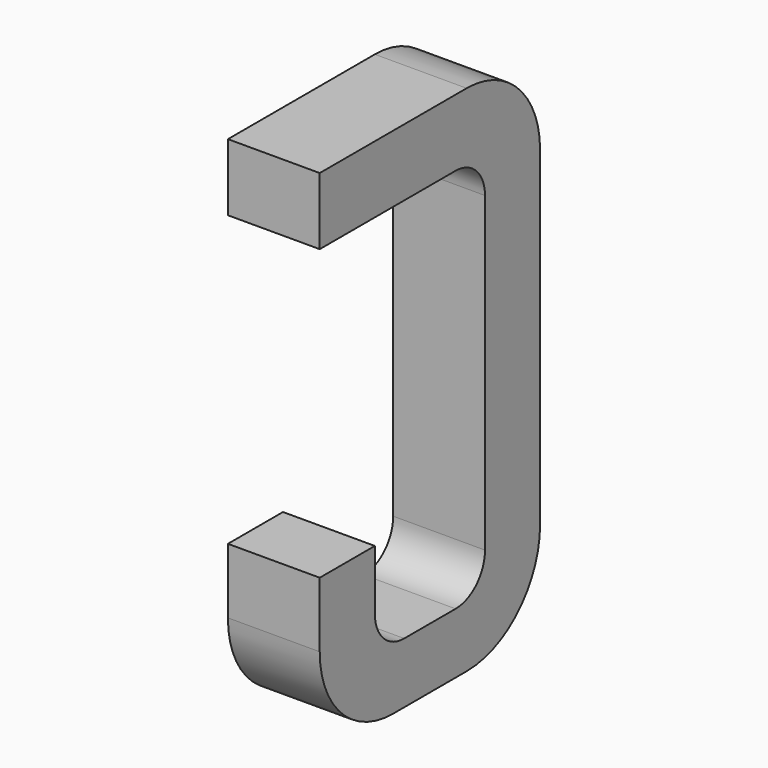
from build123d import *

# Parameters (mm, degrees)
BOX078_W     = 0.5
BOX078_H     = 1.5
BOX078_DEPTH = 2.795
FILLET183_R  = 0.5
FILLET194_R  = 0.5
FILLET206_R  = 0.5
BOX088_W     = 0.75
BOX088_H     = 2.1
BOX088_DEPTH = 1
FILLET196_R  = 0.2
FILLET188_R  = 0.2
FILLET184_R  = 0.2
FILLET207_R  = 0.2
BOX094_W     = 1
BOX094_H     = 1.575
BOX094_DEPTH = 3


with BuildPart() as part:
    # Box078 → Box078 (join)
    with BuildSketch(Plane(origin=(-0.25, 11.125, 0), x_dir=(1, 0, 0), z_dir=(0, 0, 1))):
        with Locations((0.25, 0.75)):
            Rectangle(BOX078_W, BOX078_H)
    extrude(amount=BOX078_DEPTH)

    # Fillet183
    fillet183_edges = [part.edges().sort_by_distance(p)[0] for p in [
        (0, 12.625, 0),
    ]]
    fillet(fillet183_edges, radius=FILLET183_R)

    # Fillet194
    fillet194_edges = [part.edges().sort_by_distance(p)[0] for p in [
        (0, 12.625, 2.795),
    ]]
    fillet(fillet194_edges, radius=FILLET194_R)

    # Fillet206
    fillet206_edges = [part.edges().sort_by_distance(p)[0] for p in [
        (0, 11.125, 0),
    ]]
    fillet(fillet206_edges, radius=FILLET206_R)

    # Box088 → Box088 (cut)
    with BuildSketch(Plane(origin=(-0.5, 11.5, 0.33), x_dir=(0, 1, 0), z_dir=(1, 0, 0))):
        with Locations((0.375, 1.05)):
            Rectangle(BOX088_W, BOX088_H)
    extrude(amount=BOX088_DEPTH, mode=Mode.SUBTRACT)

    # Fillet196
    fillet196_edges = [part.edges().sort_by_distance(p)[0] for p in [
        (0, 11.5, 0.33),
    ]]
    fillet(fillet196_edges, radius=FILLET196_R)

    # Fillet188
    fillet188_edges = [part.edges().sort_by_distance(p)[0] for p in [
        (0, 12.25, 0.33),
    ]]
    fillet(fillet188_edges, radius=FILLET188_R)

    # Fillet184
    fillet184_edges = [part.edges().sort_by_distance(p)[0] for p in [
        (0, 11.5, 2.43),
    ]]
    fillet(fillet184_edges, radius=FILLET184_R)

    # Fillet207
    fillet207_edges = [part.edges().sort_by_distance(p)[0] for p in [
        (0, 12.25, 2.43),
    ]]
    fillet(fillet207_edges, radius=FILLET207_R)

    # Box094 → Box094 (cut)
    with BuildSketch(Plane(origin=(-1, 11, 0.855), x_dir=(0, 1, 0), z_dir=(1, 0, 0))):
        with Locations((0.5, 0.7875)):
            Rectangle(BOX094_W, BOX094_H)
    extrude(amount=BOX094_DEPTH, mode=Mode.SUBTRACT)


with BuildPart() as part_1:
    # Body029 placement: moved
    add(part.part.moved(Location((-7.62, 0, 0))))


solid = part_1.part
